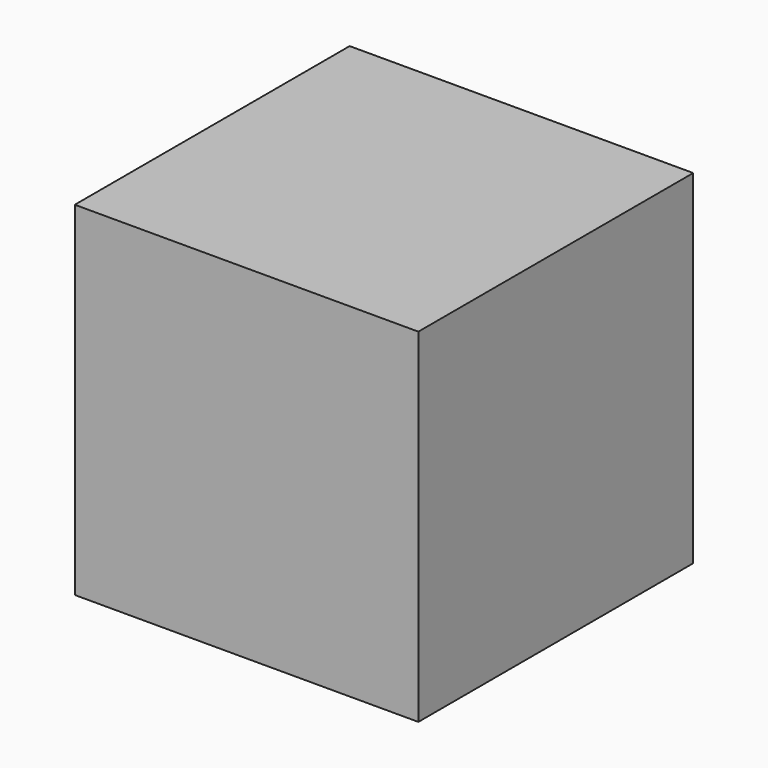
from build123d import *

# Parameters (mm, degrees)
SKETCH_W  = 1000
SKETCH_H  = 1000
PAD_DEPTH = 1000


with BuildPart() as part:
    # Sketch → Pad (new body)
    with BuildSketch(Plane.XY):
        Rectangle(SKETCH_W, SKETCH_H)
    extrude(amount=PAD_DEPTH)


solid = part.part
